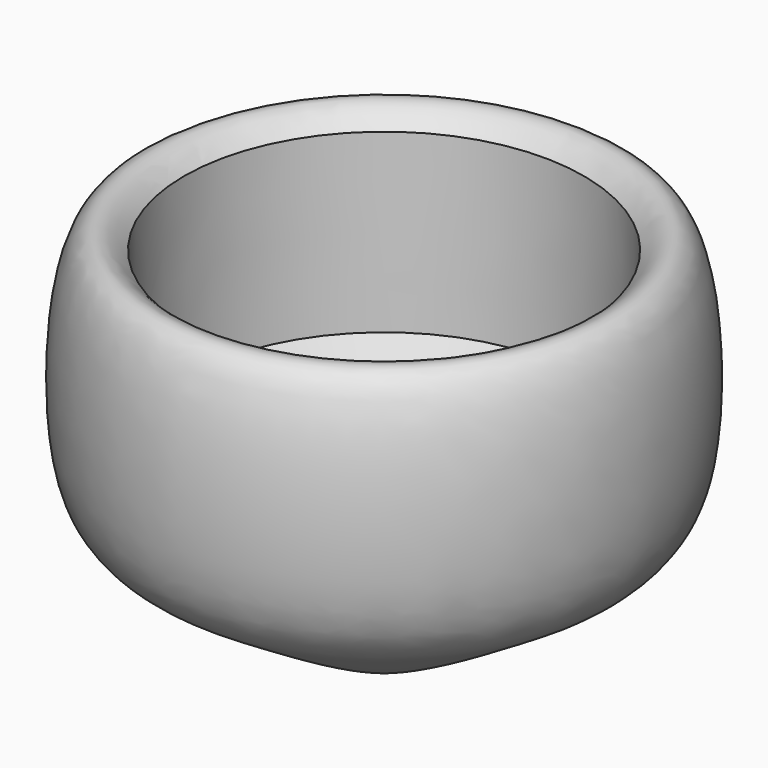
from build123d import *


with BuildPart() as f1:
    # F0 (on Front) → F1 (revolve)
    with BuildSketch(Plane.XZ):
        with BuildLine():
            add(Edge.make_bspline(
                [(-13.4654231369, 0), (-19.6943658543, 3.0092368628), (-31.4254265059, 10.4829306692), (-40.3061412499, 15.7794643526), (-37.5632465169, 46.5484878393), (-31.2350951135, 39.0090979636)],
                knots=[0, 0, 0, 0, 0.3585317603, 0.6495217499, 1, 1, 1, 1], degree=3))
            Line((-13.4654231369, 0), (-9.0497601777, 0))
            Line((-9.0497601777, 0), (-9.0497601777, 10.0311087444))
            Line((-9.0497601777, 10.0311087444), (-13.664807193, 10.0311087444))
            Line((-13.664807193, 10.0311087444), (-30.8284442872, 19.6281652898))
            Line((-30.8284442872, 19.6281652898), (-31.2350951135, 39.0090979636))
        make_face()
    revolve(axis=Axis((-9.0497601777, 0, 5.0155543722), (0, 0, -1)))


solid = f1.part
